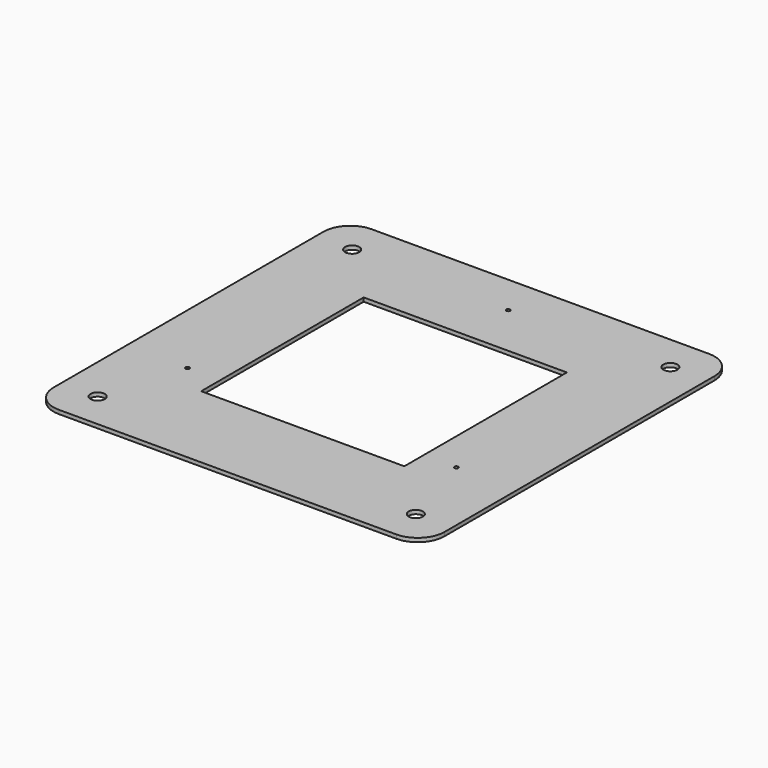
from build123d import *

# Parameters (mm, degrees)
F0_R     = 1.85
F0_R_2   = 0.5
F0_W     = 53
F0_H     = 53
F1_DEPTH = 1


with BuildPart() as f1:
    # F0 (on Top) → F1 (new body)
    with BuildSketch(Plane.XY):
        with BuildLine():
            Line((-44, -51), (44, -51))
            ThreePointArc((44, -51), (48.949747, -48.949747), (51, -44))
            Line((51, -44), (51, 44))
            ThreePointArc((51, 44), (48.949747, 48.949747), (44, 51))
            Line((44, 51), (-44, 51))
            ThreePointArc((-44, 51), (-48.949747, 48.949747), (-51, 44))
            Line((-51, 44), (-51, -44))
            ThreePointArc((-51, -44), (-48.949747, -48.949747), (-44, -51))
        make_face()
        with Locations((-41.5, -41.5)):
            Circle(F0_R, mode=Mode.SUBTRACT)
        with Locations((-35.074029, -20.25)):
            Circle(F0_R_2, mode=Mode.SUBTRACT)
        with Locations((41.5, -41.5)):
            Circle(F0_R, mode=Mode.SUBTRACT)
        with Locations((35.074029, -20.25)):
            Circle(F0_R_2, mode=Mode.SUBTRACT)
        with Locations((-41.5, 41.5)):
            Circle(F0_R, mode=Mode.SUBTRACT)
        Rectangle(F0_W, F0_H, mode=Mode.SUBTRACT)
        with Locations((0, 40.5)):
            Circle(F0_R_2, mode=Mode.SUBTRACT)
        with Locations((41.5, 41.5)):
            Circle(F0_R, mode=Mode.SUBTRACT)
    extrude(amount=F1_DEPTH)


solid = f1.part
